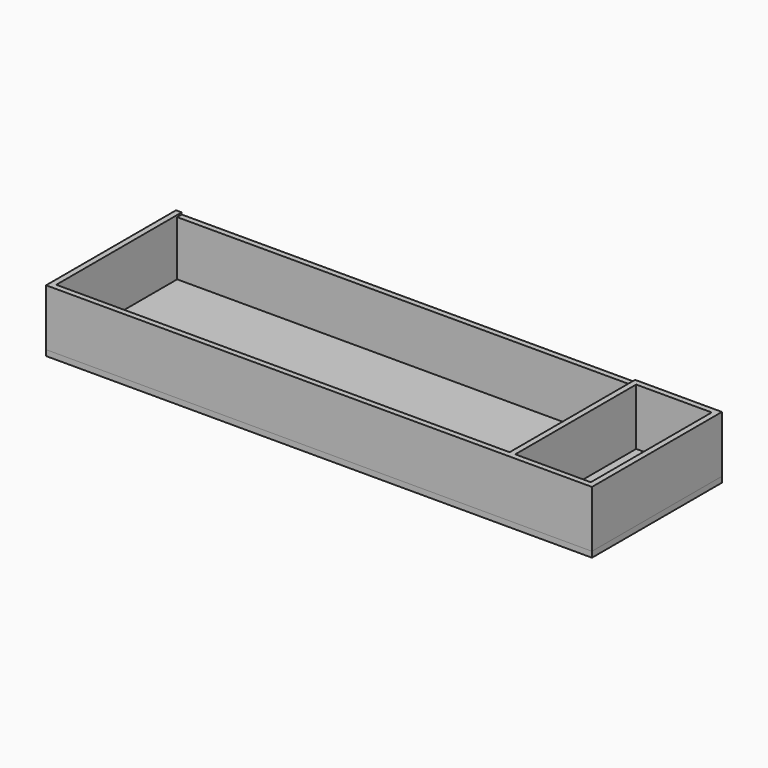
from build123d import *

# Parameters (mm, degrees)
F0_W     = 14450
F0_H     = 4300
F1_DEPTH = 150
F2_W     = 12000
F2_H     = 150
F2_W_2   = 150
F2_H_2   = 4000
F2_W_3   = 2000
F3_DEPTH = 1500
F4_W     = 12000
F4_H     = 150
F5_DEPTH = 50


with BuildPart() as f1:
    # F0 (on Top) → F1 (new body)
    with BuildSketch(Plane.XY):
        Rectangle(F0_W, F0_H)
    extrude(amount=-F1_DEPTH)


with BuildPart() as f3:
    # F2 (on face) → F3 (new body)
    with BuildSketch(Plane.XY):
        Polygon((-7075, 2150), (-7225, 2150), (-7225, -2150), (-7075, -2150), (-7075, -2000), (-7075, 2000), align=None)
        with Locations((-1075, 2075)):
            Rectangle(F2_W, F2_H)
        with Locations((-1075, -2075)):
            Rectangle(F2_W, F2_H)
        with Locations((5000, 0)):
            Rectangle(F2_W_2, F2_H_2)
        with Locations((5000, 2075)):
            Rectangle(F2_W_2, F2_H)
        with Locations((6075, 2075)):
            Rectangle(F2_W_3, F2_H)
        with Locations((7150, 0)):
            Rectangle(F2_W_2, F2_H_2)
        with Locations((7150, 2075)):
            Rectangle(F2_W_2, F2_H)
        with Locations((7150, -2075)):
            Rectangle(F2_W_2, F2_H)
        with Locations((6075, -2075)):
            Rectangle(F2_W_3, F2_H)
        with Locations((5000, -2075)):
            Rectangle(F2_W_2, F2_H)
    extrude(amount=F3_DEPTH)

    # F4 (on face) → F5 (cut)
    with BuildSketch(Plane.XY.offset(1500)):
        with Locations((-1075, 2075)):
            Rectangle(F4_W, F4_H)
    extrude(amount=-F5_DEPTH, mode=Mode.SUBTRACT)


solid = Compound([f1.part, f3.part])
